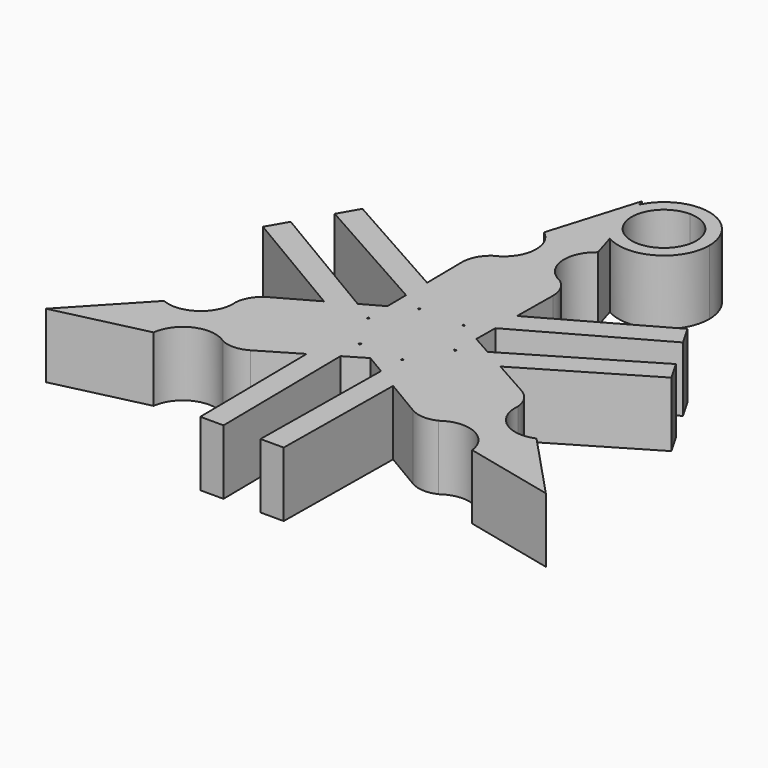
from build123d import *

# Parameters (mm, degrees)
F1_DEPTH = 5


with BuildPart() as f1:
    # F0 (on Top) → F1 (new body)
    with BuildSketch(Plane.XY):
        Polygon((-3.2212437924, -16.3569749735), (-1.426697038, -16.3569749735), (-1.5647196115, -4.8889417369), (-3.3402717926, -5.9412910774), align=None)
        Polygon((-3.3402717926, -5.9412910774), (-1.5647196115, -4.8889417369), (-1.5872030757, -3.0208334399), (-1.7481957552, -2.9254149319), (-3.3637788423, -3.8842792944), align=None)
        Polygon((-1.5872030757, -3.0208334399), (-1.5647196115, -4.8889417369), (0, -3.9615504336), align=None)
        with BuildLine():
            Line((-6.291840412, -7.6906518244), (-3.3402717926, -5.9412910774))
            Line((-3.3402717926, -5.9412910774), (-3.3637788423, -3.8842792944))
            Line((-3.3637788423, -3.8842792944), (-6.6341785068, -5.8252934798))
            ThreePointArc((-6.6341785068, -5.8252934798), (-7.9635745999, -6.012913211), (-9.0511064637, -5.2256587533))
            ThreePointArc((-9.0511064637, -5.2256587533), (-9.1891228915, -3.8902013029), (-8.3619413914, -2.8327203802))
            Line((-8.3619413914, -2.8327203802), (-5.0457739655, -0.9709782829))
            Line((-5.0457739655, -0.9709782829), (-6.8154449006, 0.0778853107))
            Line((-6.8154449006, 0.0778853107), (-9.8062200576, -1.6035677211))
            ThreePointArc((-9.8062200576, -1.6035677211), (-10.5638950235, -2.3297910167), (-10.8993865535, -3.3242341082))
            ThreePointArc((-10.8993865535, -3.3242341082), (-11.9036748048, -5.6152118935), (-14.3884482062, -5.9034396652))
            Line((-14.3884482062, -5.9034396652), (-19.3045690198, -11.1454981202))
            Line((-19.3045690198, -11.1454981202), (-12.3067528228, -9.509041835))
            ThreePointArc((-12.3067528228, -9.509041835), (-10.8147535498, -7.5012788326), (-8.3285644626, -7.7770285869))
            ThreePointArc((-8.3285644626, -7.7770285869), (-7.2996057177, -7.9837059449), (-6.291840412, -7.6906518244))
        make_face()
        Polygon((-1.589485169, -2.8312186468), (-1.5872030757, -3.0208334399), (0, -3.9615504336), (1.5872030757, -3.0208334399), (1.589485169, -2.8312186468), (0, -1.8878436538), align=None)
        Polygon((1.5872030757, -3.0208334399), (0, -3.9615504336), (1.5647196115, -4.8889417369), align=None)
        Polygon((1.7481957552, -2.9254149319), (1.5872030757, -3.0208334399), (1.5647196115, -4.8889417369), (3.3402717926, -5.9412910774), (3.3637788423, -3.8842792944), align=None)
        Polygon((3.3402717926, -5.9412910774), (1.5647196115, -4.8889417369), (1.426697038, -16.3569749735), (3.2212437924, -16.3569749735), align=None)
        with BuildLine():
            Line((3.3637788423, -3.8842792944), (3.3402717926, -5.9412910774))
            Line((3.3402717926, -5.9412910774), (6.291840412, -7.6906518244))
            ThreePointArc((6.291840412, -7.6906518244), (7.2996057177, -7.9837059449), (8.3285644626, -7.7770285869))
            ThreePointArc((8.3285644626, -7.7770285869), (10.8147535498, -7.5012788326), (12.3067528228, -9.509041835))
            Line((12.3067528228, -9.509041835), (19.3045690198, -11.1454981202))
            Line((19.3045690198, -11.1454981202), (14.3884482062, -5.9034396652))
            ThreePointArc((14.3884482062, -5.9034396652), (11.9036748048, -5.6152118935), (10.8993865535, -3.3242341082))
            ThreePointArc((10.8993865535, -3.3242341082), (10.5638950235, -2.3297910167), (9.8062200576, -1.6035677211))
            Line((9.8062200576, -1.6035677211), (6.8154449006, 0.0778853107))
            Line((6.8154449006, 0.0778853107), (5.0457739655, -0.9709782829))
            Line((5.0457739655, -0.9709782829), (8.3619413914, -2.8327203802))
            ThreePointArc((8.3619413914, -2.8327203802), (9.1891228915, -3.8902013029), (9.0511064637, -5.2256587533))
            ThreePointArc((9.0511064637, -5.2256587533), (7.9635745999, -6.012913211), (6.6341785068, -5.8252934798))
            Line((6.6341785068, -5.8252934798), (3.3637788423, -3.8842792944))
        make_face()
        Polygon((-5.0457739655, -0.9709782829), (-3.4075815252, -0.0512744689), (-3.4097200374, 0.1358585354), (-5.0163075475, 1.0893839351), (-6.8154449006, 0.0778853107), align=None)
        Polygon((-3.2466498563, 0.0390747881), (-1.6349205626, 0.9439218269), (-1.6571646873, 2.7921438587), (-1.8225169617, 2.8849749045), (-3.4308033139, 1.9807752168), (-3.4097200374, 0.1358585354), align=None)
        Polygon((-5.0163075475, 1.0893839351), (-3.4097200374, 0.1358585354), (-3.4308033139, 1.9807752168), align=None)
        Polygon((-15.7761777523, 5.3888085307), (-6.8154449006, 0.0778853107), (-5.0163075475, 1.0893839351), (-14.8789043751, 6.9429316084), align=None)
        Polygon((1.6571646873, 2.7921438587), (1.6349205626, 0.9439218269), (3.2466498563, 0.0390747881), (3.4097200374, 0.1358585354), (3.4308033139, 1.9807752168), (1.8225169617, 2.8849749045), align=None)
        Polygon((3.4097200374, 0.1358585354), (3.4075815252, -0.0512744689), (5.0457739655, -0.9709782829), (6.8154449006, 0.0778853107), (5.0163075475, 1.0893839351), align=None)
        Polygon((-3.451587936, 3.7995578018), (-3.4308033139, 1.9807752168), (-1.8225169617, 2.8849749045), align=None)
        Polygon((-1.8225169617, 2.8849749045), (-1.65938577, 2.9766894007), (-1.6819951232, 4.8552575774), (-3.475173108, 5.8634057666), (-3.451587936, 3.7995578018), align=None)
        Polygon((3.4308033139, 1.9807752168), (3.4097200374, 0.1358585354), (5.0163075475, 1.0893839351), align=None)
        Polygon((5.0163075475, 1.0893839351), (6.8154449006, 0.0778853107), (15.7761777523, 5.3888085307), (14.8789043751, 6.9429316084), align=None)
        Polygon((-13.4522073371, 9.4140433651), (-3.451587936, 3.7995578018), (-3.475173108, 5.8634057666), (-12.5549339599, 10.9681664428), align=None)
        with BuildLine():
            Line((-3.475173108, 5.8634057666), (-1.6819951232, 4.8552575774))
            Line((-1.6819951232, 4.8552575774), (-1.7277628846, 8.65801386))
            ThreePointArc((-1.7277628846, 8.65801386), (-1.2255482916, 9.903114514), (0, 10.4513175066))
            ThreePointArc((0, 10.4513175066), (1.2255482916, 9.903114514), (1.7277628846, 8.65801386))
            Line((1.7277628846, 8.65801386), (1.6819951232, 4.8552575774))
            Line((1.6819951232, 4.8552575774), (3.475173108, 5.8634057666))
            Line((3.475173108, 5.8634057666), (3.5143796456, 9.2942195456))
            ThreePointArc((3.5143796456, 9.2942195456), (3.2642893058, 10.3134969616), (2.570822091, 11.1012626951))
            ThreePointArc((2.570822091, 11.1012626951), (1.088921255, 13.1164907261), (2.0816953833, 15.4124815002))
            Line((2.0816953833, 15.4124815002), (1.5207536328, 17.265992888))
            ThreePointArc((1.5207536328, 17.265992888), (-0.067811393, 19.2766596681), (0.1392845209, 21.8307604932))
            Line((0.1392845209, 21.8307604932), (0, 22.2909962404))
            Line((0, 22.2909962404), (-2.0816953833, 15.4124815002))
            ThreePointArc((-2.0816953833, 15.4124815002), (-1.088921255, 13.1164907261), (-2.570822091, 11.1012626951))
            ThreePointArc((-2.570822091, 11.1012626951), (-3.2642893058, 10.3134969616), (-3.5143796456, 9.2942195456))
            Line((-3.5143796456, 9.2942195456), (-3.475173108, 5.8634057666))
        make_face()
        Polygon((1.6819951232, 4.8552575774), (1.65938577, 2.9766894007), (1.8225169617, 2.8849749045), (3.451587936, 3.7995578018), (3.475173108, 5.8634057666), align=None)
        Polygon((3.451587936, 3.7995578018), (1.8225169617, 2.8849749045), (3.4308033139, 1.9807752168), align=None)
        Polygon((3.475173108, 5.8634057666), (3.451587936, 3.7995578018), (13.4522073371, 9.4140433651), (12.5549339599, 10.9681664428), align=None)
        with BuildLine():
            ThreePointArc((3.2821391693, 23.7904797853), (1.4302458783, 23.2604109695), (0.1392845209, 21.8307604932))
            ThreePointArc((0.1392845209, 21.8307604932), (-0.067811393, 19.2766596681), (1.5207536328, 17.265992888))
            ThreePointArc((1.5207536328, 17.265992888), (5.0264371115, 17.2561059308), (6.7821391693, 20.2904797853))
            ThreePointArc((6.7821391693, 20.2904797853), (5.7570129035, 22.7653535195), (3.2821391693, 23.7904797853))
        make_face()
        with BuildLine():
            ThreePointArc((5.7821391693, 20.2904797853), (1.5143722164, 18.5227128323), (3.2821391693, 22.7904797853))
            ThreePointArc((3.2821391693, 22.7904797853), (5.0499061223, 22.0582467383), (5.7821391693, 20.2904797853))
        make_face(mode=Mode.SUBTRACT)
        with BuildLine():
            Line((-3.475173108, 5.8634057666), (-1.6819951232, 4.8552575774))
            Line((-1.6819951232, 4.8552575774), (-1.7277628846, 8.65801386))
            ThreePointArc((-1.7277628846, 8.65801386), (-1.2255482916, 9.903114514), (0, 10.4513175066))
            ThreePointArc((0, 10.4513175066), (1.2255482916, 9.903114514), (1.7277628846, 8.65801386))
            Line((1.7277628846, 8.65801386), (1.6819951232, 4.8552575774))
            Line((1.6819951232, 4.8552575774), (3.475173108, 5.8634057666))
            Line((3.475173108, 5.8634057666), (3.5143796456, 9.2942195456))
            ThreePointArc((3.5143796456, 9.2942195456), (3.2642893058, 10.3134969616), (2.570822091, 11.1012626951))
            ThreePointArc((2.570822091, 11.1012626951), (1.088921255, 13.1164907261), (2.0816953833, 15.4124815002))
            Line((2.0816953833, 15.4124815002), (1.5207536328, 17.265992888))
            ThreePointArc((1.5207536328, 17.265992888), (-0.067811393, 19.2766596681), (0.1392845209, 21.8307604932))
            Line((0.1392845209, 21.8307604932), (0, 22.2909962404))
            Line((0, 22.2909962404), (-2.0816953833, 15.4124815002))
            ThreePointArc((-2.0816953833, 15.4124815002), (-1.088921255, 13.1164907261), (-2.570822091, 11.1012626951))
            ThreePointArc((-2.570822091, 11.1012626951), (-3.2642893058, 10.3134969616), (-3.5143796456, 9.2942195456))
            Line((-3.5143796456, 9.2942195456), (-3.475173108, 5.8634057666))
        make_face()
        Polygon((3.475173108, 5.8634057666), (3.451587936, 3.7995578018), (13.4522073371, 9.4140433651), (12.5549339599, 10.9681664428), align=None)
        Polygon((5.0163075475, 1.0893839351), (6.8154449006, 0.0778853107), (15.7761777523, 5.3888085307), (14.8789043751, 6.9429316084), align=None)
        with BuildLine():
            Line((3.3637788423, -3.8842792944), (3.3402717926, -5.9412910774))
            Line((3.3402717926, -5.9412910774), (6.291840412, -7.6906518244))
            ThreePointArc((6.291840412, -7.6906518244), (7.2996057177, -7.9837059449), (8.3285644626, -7.7770285869))
            ThreePointArc((8.3285644626, -7.7770285869), (10.8147535498, -7.5012788326), (12.3067528228, -9.509041835))
            Line((12.3067528228, -9.509041835), (19.3045690198, -11.1454981202))
            Line((19.3045690198, -11.1454981202), (14.3884482062, -5.9034396652))
            ThreePointArc((14.3884482062, -5.9034396652), (11.9036748048, -5.6152118935), (10.8993865535, -3.3242341082))
            ThreePointArc((10.8993865535, -3.3242341082), (10.5638950235, -2.3297910167), (9.8062200576, -1.6035677211))
            Line((9.8062200576, -1.6035677211), (6.8154449006, 0.0778853107))
            Line((6.8154449006, 0.0778853107), (5.0457739655, -0.9709782829))
            Line((5.0457739655, -0.9709782829), (8.3619413914, -2.8327203802))
            ThreePointArc((8.3619413914, -2.8327203802), (9.1891228915, -3.8902013029), (9.0511064637, -5.2256587533))
            ThreePointArc((9.0511064637, -5.2256587533), (7.9635745999, -6.012913211), (6.6341785068, -5.8252934798))
            Line((6.6341785068, -5.8252934798), (3.3637788423, -3.8842792944))
        make_face()
        Polygon((3.3402717926, -5.9412910774), (1.5647196115, -4.8889417369), (1.426697038, -16.3569749735), (3.2212437924, -16.3569749735), align=None)
        Polygon((-3.2212437924, -16.3569749735), (-1.426697038, -16.3569749735), (-1.5647196115, -4.8889417369), (-3.3402717926, -5.9412910774), align=None)
        with BuildLine():
            Line((-6.291840412, -7.6906518244), (-3.3402717926, -5.9412910774))
            Line((-3.3402717926, -5.9412910774), (-3.3637788423, -3.8842792944))
            Line((-3.3637788423, -3.8842792944), (-6.6341785068, -5.8252934798))
            ThreePointArc((-6.6341785068, -5.8252934798), (-7.9635745999, -6.012913211), (-9.0511064637, -5.2256587533))
            ThreePointArc((-9.0511064637, -5.2256587533), (-9.1891228915, -3.8902013029), (-8.3619413914, -2.8327203802))
            Line((-8.3619413914, -2.8327203802), (-5.0457739655, -0.9709782829))
            Line((-5.0457739655, -0.9709782829), (-6.8154449006, 0.0778853107))
            Line((-6.8154449006, 0.0778853107), (-9.8062200576, -1.6035677211))
            ThreePointArc((-9.8062200576, -1.6035677211), (-10.5638950235, -2.3297910167), (-10.8993865535, -3.3242341082))
            ThreePointArc((-10.8993865535, -3.3242341082), (-11.9036748048, -5.6152118935), (-14.3884482062, -5.9034396652))
            Line((-14.3884482062, -5.9034396652), (-19.3045690198, -11.1454981202))
            Line((-19.3045690198, -11.1454981202), (-12.3067528228, -9.509041835))
            ThreePointArc((-12.3067528228, -9.509041835), (-10.8147535498, -7.5012788326), (-8.3285644626, -7.7770285869))
            ThreePointArc((-8.3285644626, -7.7770285869), (-7.2996057177, -7.9837059449), (-6.291840412, -7.6906518244))
        make_face()
        Polygon((-15.7761777523, 5.3888085307), (-6.8154449006, 0.0778853107), (-5.0163075475, 1.0893839351), (-14.8789043751, 6.9429316084), align=None)
        Polygon((-13.4522073371, 9.4140433651), (-3.451587936, 3.7995578018), (-3.475173108, 5.8634057666), (-12.5549339599, 10.9681664428), align=None)
        Polygon((-1.8225169617, 2.8849749045), (-1.65938577, 2.9766894007), (-1.6819951232, 4.8552575774), (-3.475173108, 5.8634057666), (-3.451587936, 3.7995578018), align=None)
        Polygon((-1.6819951232, 4.8552575774), (-1.65938577, 2.9766894007), (0, 3.9096178515), align=None)
        Polygon((-1.65938577, 2.9766894007), (-1.6571646873, 2.7921438587), (0, 1.8617887637), (1.6571646873, 2.7921438587), (1.65938577, 2.9766894007), (0, 3.9096178515), align=None)
        Polygon((1.6819951232, 4.8552575774), (0, 3.9096178515), (1.65938577, 2.9766894007), align=None)
        Polygon((1.6819951232, 4.8552575774), (1.65938577, 2.9766894007), (1.8225169617, 2.8849749045), (3.451587936, 3.7995578018), (3.475173108, 5.8634057666), align=None)
        Polygon((-5.0457739655, -0.9709782829), (-3.4075815252, -0.0512744689), (-3.4097200374, 0.1358585354), (-5.0163075475, 1.0893839351), (-6.8154449006, 0.0778853107), align=None)
        Polygon((-5.0457739655, -0.9709782829), (-3.3858283785, -1.9548089258), (-3.4075815252, -0.0512744689), align=None)
        Polygon((-5.0163075475, 1.0893839351), (-3.4097200374, 0.1358585354), (-3.4308033139, 1.9807752168), align=None)
        Polygon((-3.451587936, 3.7995578018), (-3.4308033139, 1.9807752168), (-1.8225169617, 2.8849749045), align=None)
        Polygon((-3.2466498563, 0.0390747881), (-1.6349205626, 0.9439218269), (-1.6571646873, 2.7921438587), (-1.8225169617, 2.8849749045), (-3.4308033139, 1.9807752168), (-3.4097200374, 0.1358585354), align=None)
        Polygon((-1.7481957552, -2.9254149319), (-1.589485169, -2.8312186468), (-1.6123563658, -0.9308943818), (-3.2466498563, 0.0390747881), (-3.4075815252, -0.0512744689), (-3.3858283785, -1.9548089258), align=None)
        Polygon((-3.3402717926, -5.9412910774), (-1.5647196115, -4.8889417369), (-1.5872030757, -3.0208334399), (-1.7481957552, -2.9254149319), (-3.3637788423, -3.8842792944), align=None)
        Polygon((-3.3858283785, -1.9548089258), (-3.3637788423, -3.8842792944), (-1.7481957552, -2.9254149319), align=None)
        Polygon((-1.6571646873, 2.7921438587), (-1.6349205626, 0.9439218269), (0, 1.8617887637), align=None)
        Polygon((-3.2466498563, 0.0390747881), (-1.6123563658, -0.9308943818), (-1.6349205626, 0.9439218269), align=None)
        Polygon((1.6349205626, 0.9439218269), (1.6123563658, -0.9308943818), (3.2466498563, 0.0390747881), align=None)
        Polygon((1.6571646873, 2.7921438587), (1.6349205626, 0.9439218269), (3.2466498563, 0.0390747881), (3.4097200374, 0.1358585354), (3.4308033139, 1.9807752168), (1.8225169617, 2.8849749045), align=None)
        Polygon((3.451587936, 3.7995578018), (1.8225169617, 2.8849749045), (3.4308033139, 1.9807752168), align=None)
        Polygon((1.6571646873, 2.7921438587), (0, 1.8617887637), (1.6349205626, 0.9439218269), align=None)
        Polygon((3.4308033139, 1.9807752168), (3.4097200374, 0.1358585354), (5.0163075475, 1.0893839351), align=None)
        Polygon((3.4097200374, 0.1358585354), (3.4075815252, -0.0512744689), (5.0457739655, -0.9709782829), (6.8154449006, 0.0778853107), (5.0163075475, 1.0893839351), align=None)
        Polygon((3.4075815252, -0.0512744689), (3.3858283785, -1.9548089258), (5.0457739655, -0.9709782829), align=None)
        Polygon((1.6123563658, -0.9308943818), (1.589485169, -2.8312186468), (1.7481957552, -2.9254149319), (3.3858283785, -1.9548089258), (3.4075815252, -0.0512744689), (3.2466498563, 0.0390747881), align=None)
        Polygon((1.6123563658, -0.9308943818), (0, -1.8878436538), (1.589485169, -2.8312186468), align=None)
        Polygon((-1.6123563658, -0.9308943818), (-1.589485169, -2.8312186468), (0, -1.8878436538), align=None)
        Polygon((-1.589485169, -2.8312186468), (-1.5872030757, -3.0208334399), (0, -3.9615504336), (1.5872030757, -3.0208334399), (1.589485169, -2.8312186468), (0, -1.8878436538), align=None)
        Polygon((1.5872030757, -3.0208334399), (0, -3.9615504336), (1.5647196115, -4.8889417369), align=None)
        Polygon((-1.5872030757, -3.0208334399), (-1.5647196115, -4.8889417369), (0, -3.9615504336), align=None)
        Polygon((1.7481957552, -2.9254149319), (1.5872030757, -3.0208334399), (1.5647196115, -4.8889417369), (3.3402717926, -5.9412910774), (3.3637788423, -3.8842792944), align=None)
        Polygon((3.3858283785, -1.9548089258), (1.7481957552, -2.9254149319), (3.3637788423, -3.8842792944), align=None)
        with BuildLine():
            Line((-1.7277628846, 8.65801386), (-1.6819951232, 4.8552575774))
            Line((-1.6819951232, 4.8552575774), (0, 3.9096178515))
            Line((0, 3.9096178515), (1.6819951232, 4.8552575774))
            Line((1.6819951232, 4.8552575774), (1.7277628846, 8.65801386))
            ThreePointArc((1.7277628846, 8.65801386), (1.2255482916, 9.903114514), (0, 10.4513175066))
            ThreePointArc((0, 10.4513175066), (-1.2255482916, 9.903114514), (-1.7277628846, 8.65801386))
        make_face()
        Polygon((-1.6349205626, 0.9439218269), (-1.6123563658, -0.9308943818), (0, -1.8878436538), (1.6123563658, -0.9308943818), (1.6349205626, 0.9439218269), (0, 1.8617887637), align=None)
        with BuildLine():
            Line((-6.6341785068, -5.8252934798), (-3.3637788423, -3.8842792944))
            Line((-3.3637788423, -3.8842792944), (-3.3858283785, -1.9548089258))
            Line((-3.3858283785, -1.9548089258), (-5.0457739655, -0.9709782829))
            Line((-5.0457739655, -0.9709782829), (-8.3619413914, -2.8327203802))
            ThreePointArc((-8.3619413914, -2.8327203802), (-9.1891228915, -3.8902013029), (-9.0511064637, -5.2256587533))
            ThreePointArc((-9.0511064637, -5.2256587533), (-7.9635745999, -6.012913211), (-6.6341785068, -5.8252934798))
        make_face()
        with BuildLine():
            Line((5.0457739655, -0.9709782829), (3.3858283785, -1.9548089258))
            Line((3.3858283785, -1.9548089258), (3.3637788423, -3.8842792944))
            Line((3.3637788423, -3.8842792944), (6.6341785068, -5.8252934798))
            ThreePointArc((6.6341785068, -5.8252934798), (7.9635745999, -6.012913211), (9.0511064637, -5.2256587533))
            ThreePointArc((9.0511064637, -5.2256587533), (9.1891228915, -3.8902013029), (8.3619413914, -2.8327203802))
            Line((8.3619413914, -2.8327203802), (5.0457739655, -0.9709782829))
        make_face()
    extrude(amount=F1_DEPTH)


solid = f1.part
